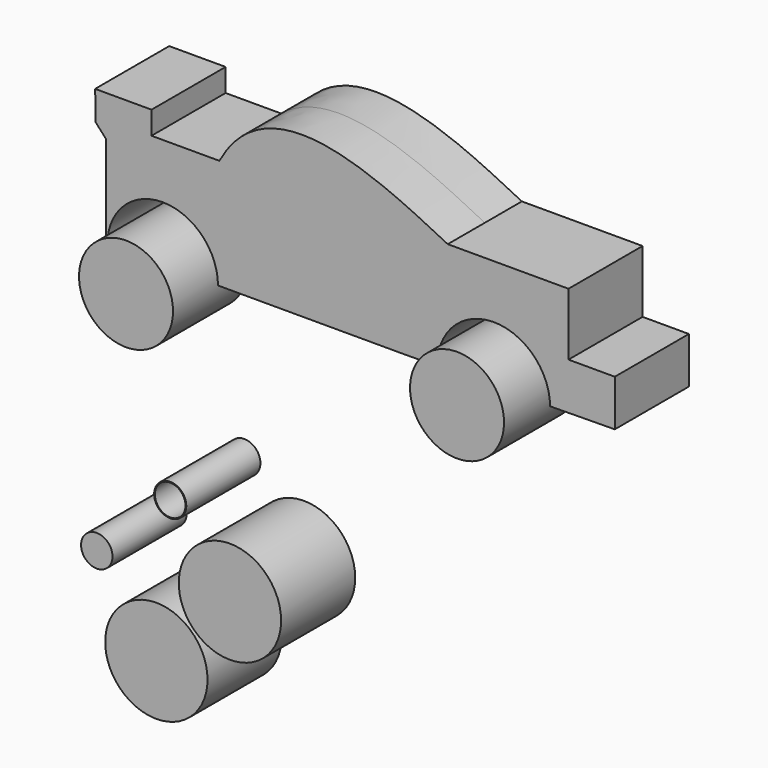
from build123d import *

# Parameters (mm, degrees)
F0_W     = 50.8
F0_H     = 8.048554721
F0_W_2   = 18.6008806118
F0_H_2   = 6.2944726395
F1_DEPTH = 12.7
F2_R     = 12.8910501965
F3_DEPTH = 25.4
F2_R_2   = 4.4138047906
F2_R_3   = 4.1981567518
F2_R_4   = 4.3133772
F2_R_5   = 14.0335


with BuildPart() as f1:
    # F0 (on Front) → F1 (new body, symmetric)
    with BuildSketch(Plane.XZ):
        with BuildLine():
            Line((-73.4209669053, 55.7403657233), (-70.5829752063, 52.6185790514))
            Line((-70.5829752063, 52.6185790514), (-70.5829752063, 27.2185790514))
            Line((-70.5829752063, 27.2185790514), (-70.2070189452, 27.2185790514))
            ThreePointArc((-70.2070189452, 27.2185790514), (-55.0267063081, 42.3988916884), (-39.846393671, 27.2185790514))
            Line((-39.846393671, 27.2185790514), (11.8251257334, 27.2185790514))
            Line((11.8251257334, 27.2185790514), (20.271542769, 27.3156640365))
            ThreePointArc((20.271542769, 27.3156640365), (35.5794324636, 42.979550171), (51.2433185982, 27.6716604765))
            Line((51.2433185982, 27.6716604765), (68.9713508607, 27.8754303994))
            Line((68.9713508607, 27.8754303994), (68.9713508607, 40.5754303994))
            Line((68.9713508607, 40.5754303994), (56.2713508607, 40.5754303994))
            Line((56.2713508607, 40.5754303994), (56.2713508607, 57.6852942501))
            Line((56.2713508607, 57.6852942501), (41.7381572862, 57.6852942501))
            Line((41.7381572862, 57.6852942501), (23.1638532132, 57.6852942501))
            Line((23.1638532132, 57.6852942501), (11.3245324561, 57.6852942501))
            Line((11.3245324561, 57.6852942501), (11.3245324561, 51.1421337724))
            Line((11.3245324561, 51.1421337724), (11.3245324561, 43.0935790514))
            Line((11.3245324561, 43.0935790514), (-39.4754675439, 43.0935790514))
            Line((-39.4754675439, 43.0935790514), (-39.4754675439, 51.1421337724))
            Line((-39.4754675439, 51.1421337724), (-58.0763481557, 51.1421337724))
            Line((-58.0763481557, 51.1421337724), (-58.0763481557, 57.4366064119))
            Line((-58.0763481557, 57.4366064119), (-58.0763481557, 63.7310790514))
            Line((-58.0763481557, 63.7310790514), (-73.5433474183, 63.7310790514))
            Line((-73.5433474183, 63.7310790514), (-73.4209669053, 58.8621565922))
            Line((-73.4209669053, 58.8621565922), (-73.4209669053, 55.7403657233))
        make_face()
        with BuildLine():
            add(Edge.make_bspline(
                [(-39.4754675439, 57.4366064119), (-25.8321780711, 82.7565342188), (4.6486416832, 66.8863579631), (23.1638532132, 57.6852942501)],
                knots=[0, 0, 0, 0, 62.6398144198, 62.6398144198, 62.6398144198, 62.6398144198], degree=3))
            Line((-39.4754675439, 57.4366064119), (-39.4754675439, 51.1421337724))
            Line((-39.4754675439, 51.1421337724), (11.3245324561, 51.1421337724))
            Line((11.3245324561, 51.1421337724), (11.3245324561, 57.6852942501))
            Line((11.3245324561, 57.6852942501), (23.1638532132, 57.6852942501))
        make_face()
        with Locations((-14.0754675439, 47.1178564119)):
            Rectangle(F0_W, F0_H)
        with Locations((-48.7759078498, 54.2893700921)):
            Rectangle(F0_W_2, F0_H_2)
    extrude(amount=F1_DEPTH, both=True)


with BuildPart() as f3:
    # F2 (on Front) → F3 (new body)
    with BuildSketch(Plane.XZ):
        with Locations((-54.90841344, 25.4596043378)):
            Circle(F2_R)
    extrude(amount=F3_DEPTH)


with BuildPart() as f3b:
    # F2 (on Front) → F3, piece 2 (new body)
    with BuildSketch(Plane.XZ):
        with Locations((35.8654521406, 28.1074233353)):
            Circle(F2_R)
    extrude(amount=F3_DEPTH)


with BuildPart() as f3c:
    # F2 (on Front) → F3, piece 3 (new body)
    with BuildSketch(Plane.XZ):
        with Locations((-42.7895486355, -20.3665606678)):
            Circle(F2_R_2)
        with Locations((-42.7895486355, -20.3665606678)):
            Circle(F2_R_3, mode=Mode.SUBTRACT)
    extrude(amount=F3_DEPTH)


with BuildPart() as f3d:
    # F2 (on Front) → F3, piece 4 (new body)
    with BuildSketch(Plane.XZ):
        with Locations((-62.9214718938, -39.1667969525)):
            Circle(F2_R_4)
    extrude(amount=F3_DEPTH)


with BuildPart() as f3e:
    # F2 (on Front) → F3, piece 5 (new body)
    with BuildSketch(Plane.XZ):
        with Locations((-46.5879403055, -60.42355299)):
            Circle(F2_R_5)
    extrude(amount=F3_DEPTH)


with BuildPart() as f3f:
    # F2 (on Front) → F3, piece 6 (new body)
    with BuildSketch(Plane.XZ):
        with Locations((-26.410985738, -39.5924076438)):
            Circle(F2_R_5)
    extrude(amount=F3_DEPTH)


solid = Compound([f1.part, f3.part, f3b.part, f3c.part, f3d.part, f3e.part, f3f.part])
